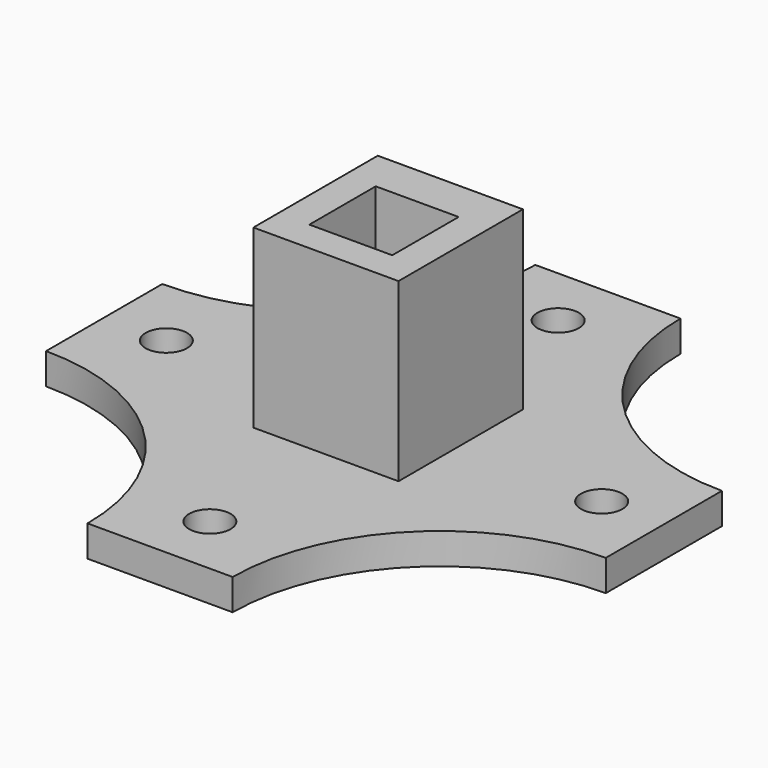
from build123d import *

# Parameters (mm, degrees)
CYLINDER018_R     = 2
CYLINDER018_DEPTH = 3
CYLINDER019_R     = 2
CYLINDER019_DEPTH = 3
CYLINDER014_R     = 20
CYLINDER014_DEPTH = 3
CYLINDER021_R     = 2
CYLINDER021_DEPTH = 3
CYLINDER017_R     = 20
CYLINDER017_DEPTH = 3
CYLINDER016_R     = 20
CYLINDER016_DEPTH = 3
CYLINDER015_R     = 20
CYLINDER015_DEPTH = 3
CYLINDER020_R     = 2
CYLINDER020_DEPTH = 3
BOX016_W          = 8
BOX016_H          = 8
BOX016_DEPTH      = 20
BOX018_W          = 54
BOX018_H          = 54
BOX018_DEPTH      = 3
BOX015_W          = 14
BOX015_H          = 15
BOX015_DEPTH      = 20


with BuildPart() as zylinder018:
    # Cylinder018 → Cylinder018 (new body)
    with BuildSketch(Plane(origin=(3, -9, -40), x_dir=(1, 0, 0), z_dir=(0, 0, 1))):
        Circle(CYLINDER018_R)
    extrude(amount=CYLINDER018_DEPTH)


with BuildPart() as zylinder019:
    # Cylinder019 → Cylinder019 (new body)
    with BuildSketch(Plane(origin=(3, 33, -40), x_dir=(1, 0, 0), z_dir=(0, 0, 1))):
        Circle(CYLINDER019_R)
    extrude(amount=CYLINDER019_DEPTH)


with BuildPart() as zylinder014:
    # Cylinder014 → Cylinder014 (new body)
    with BuildSketch(Plane(origin=(30, -15, -40), x_dir=(1, 0, 0), z_dir=(0, 0, 1))):
        Circle(CYLINDER014_R)
    extrude(amount=CYLINDER014_DEPTH)


with BuildPart() as zylinder021:
    # Cylinder021 → Cylinder021 (new body)
    with BuildSketch(Plane(origin=(-18, 12, -40), x_dir=(1, 0, 0), z_dir=(0, 0, 1))):
        Circle(CYLINDER021_R)
    extrude(amount=CYLINDER021_DEPTH)


with BuildPart() as zylinder017:
    # Cylinder017 → Cylinder017 (new body)
    with BuildSketch(Plane(origin=(30, 39, -40), x_dir=(1, 0, 0), z_dir=(0, 0, 1))):
        Circle(CYLINDER017_R)
    extrude(amount=CYLINDER017_DEPTH)


with BuildPart() as zylinder016:
    # Cylinder016 → Cylinder016 (new body)
    with BuildSketch(Plane(origin=(-24, 39, -40), x_dir=(1, 0, 0), z_dir=(0, 0, 1))):
        Circle(CYLINDER016_R)
    extrude(amount=CYLINDER016_DEPTH)


with BuildPart() as zylinder015:
    # Cylinder015 → Cylinder015 (new body)
    with BuildSketch(Plane(origin=(-24, -15, -40), x_dir=(1, 0, 0), z_dir=(0, 0, 1))):
        Circle(CYLINDER015_R)
    extrude(amount=CYLINDER015_DEPTH)


with BuildPart() as zylinder020:
    # Cylinder020 → Cylinder020 (new body)
    with BuildSketch(Plane(origin=(24, 12, -40), x_dir=(1, 0, 0), z_dir=(0, 0, 1))):
        Circle(CYLINDER020_R)
    extrude(amount=CYLINDER020_DEPTH)


with BuildPart() as fusion009:
    # Box016 → Box016 (new body)
    with BuildSketch(Plane(origin=(-1, 8, -40), x_dir=(1, 0, 0), z_dir=(0, 0, 1))):
        with Locations((4, 4)):
            Rectangle(BOX016_W, BOX016_H)
    extrude(amount=BOX016_DEPTH)

    # Fusion009: union Zylinder018, Zylinder019, Zylinder014, Zylinder021, Zylinder017, Zylinder016, Zylinder015, Zylinder020
    add(zylinder018.part)
    add(zylinder019.part)
    add(zylinder014.part)
    add(zylinder021.part)
    add(zylinder017.part)
    add(zylinder016.part)
    add(zylinder015.part)
    add(zylinder020.part)


with BuildPart() as cube018:
    # Box018 → Box018 (new body)
    with BuildSketch(Plane(origin=(-24, -15, -40), x_dir=(1, 0, 0), z_dir=(0, 0, 1))):
        with Locations((27, 27)):
            Rectangle(BOX018_W, BOX018_H)
    extrude(amount=BOX018_DEPTH)


with BuildPart() as sockel:
    # Box015 → Box015 (new body)
    with BuildSketch(Plane(origin=(-4, 5, -40), x_dir=(1, 0, 0), z_dir=(0, 0, 1))):
        with Locations((7, 7.5)):
            Rectangle(BOX015_W, BOX015_H)
    extrude(amount=BOX015_DEPTH)

    # Fusion008: union Cube018
    add(cube018.part)

    # Cut004: cut Fusion009
    add(fusion009.part, mode=Mode.SUBTRACT)


solid = sockel.part
